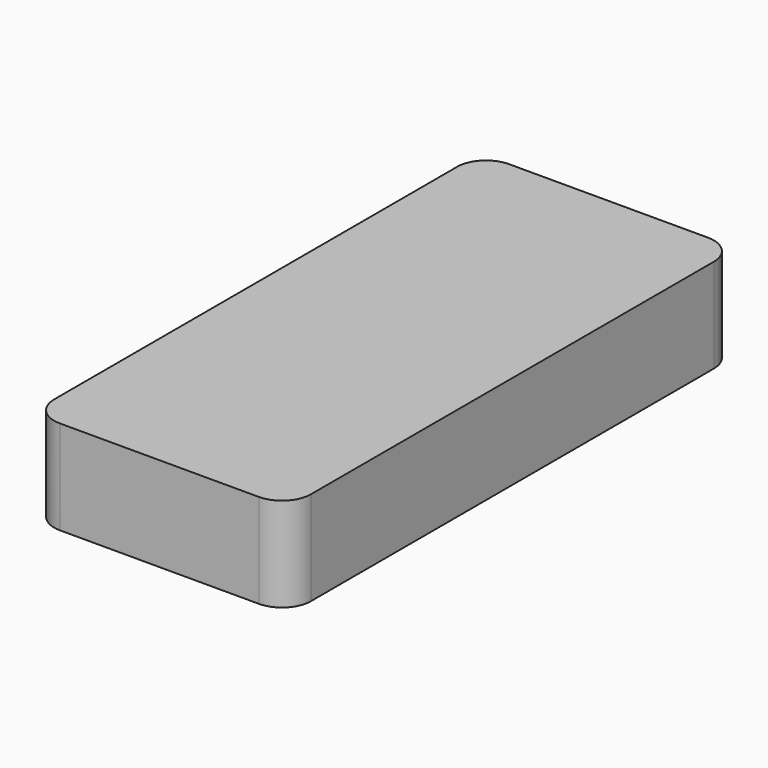
from build123d import *

# Parameters (mm, degrees)
F1_DEPTH = 32.51
F2_R     = 1.7525
F3_DEPTH = 5


with BuildPart() as f1:
    # F0 (on Top) → F1 (new body)
    with BuildSketch(Plane.XY):
        with BuildLine():
            Line((78.71, 0), (10, 0))
            ThreePointArc((10, 0), (2.928932, -2.928932), (0, -10))
            Line((0, -10), (0, -183.96))
            ThreePointArc((0, -183.96), (2.928932, -191.031068), (10, -193.96))
            Line((10, -193.96), (78.71, -193.96))
            ThreePointArc((78.71, -193.96), (85.781068, -191.031068), (88.71, -183.96))
            Line((88.71, -183.96), (88.71, -10))
            ThreePointArc((88.71, -10), (85.781068, -2.928932), (78.71, 0))
        make_face()
    extrude(amount=F1_DEPTH)

    # F2 (on face) → F3 (cut)
    with BuildSketch(Plane(origin=(0, 0, 0), x_dir=(1, 0, 0), z_dir=(0, 0, -1))):
        with Locations((63.4, 114.98)):
            Circle(F2_R)
        with Locations((25.3, 114.98)):
            Circle(F2_R)
    extrude(amount=-F3_DEPTH, mode=Mode.SUBTRACT)


solid = f1.part
